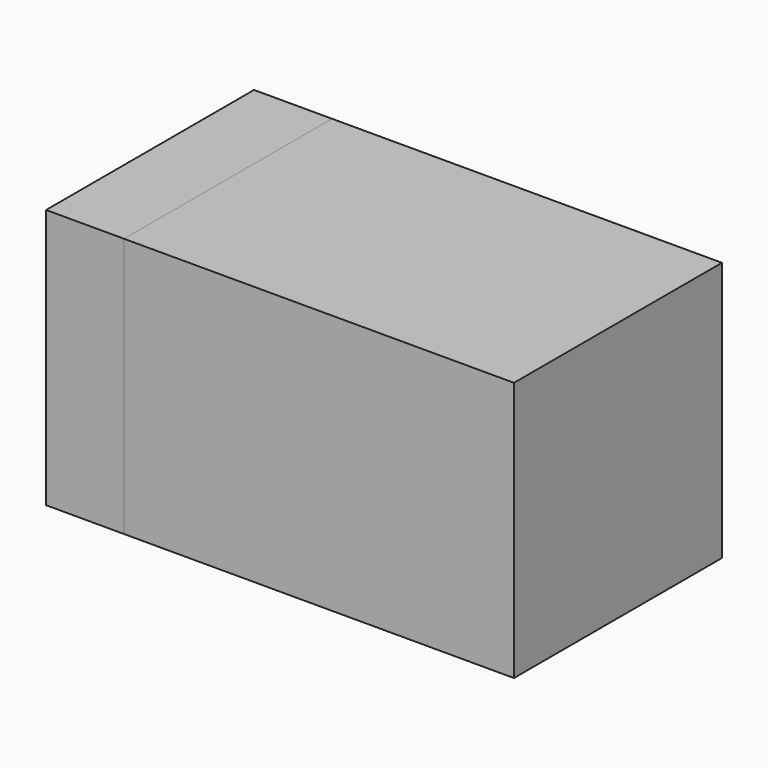
from build123d import *

# Parameters (mm, degrees)
SKETCH_W     = 1.5
SKETCH_H     = 1
PAD_DEPTH    = 1
SKETCH001_W  = 0.3
SKETCH001_H  = 1
PAD001_DEPTH = 1


with BuildPart() as body:
    # Sketch → Pad (new body)
    with BuildSketch(Plane.XY):
        Rectangle(SKETCH_W, SKETCH_H)
    extrude(amount=PAD_DEPTH)


with BuildPart() as body001:
    # Sketch001 → Pad001 (new body)
    with BuildSketch(Plane.XY):
        with Locations((0.9, 0)):
            Rectangle(SKETCH001_W, SKETCH001_H)
    extrude(amount=PAD001_DEPTH)


with BuildPart() as part_mirroring:
    # Part__Mirroring: instance of Body001
    add(body001.part.mirror(Plane(origin=(0, 0, 0), x_dir=(0, -1, 0), z_dir=(1, 0, 0))))


solid = Compound([body.part, part_mirroring.part])
